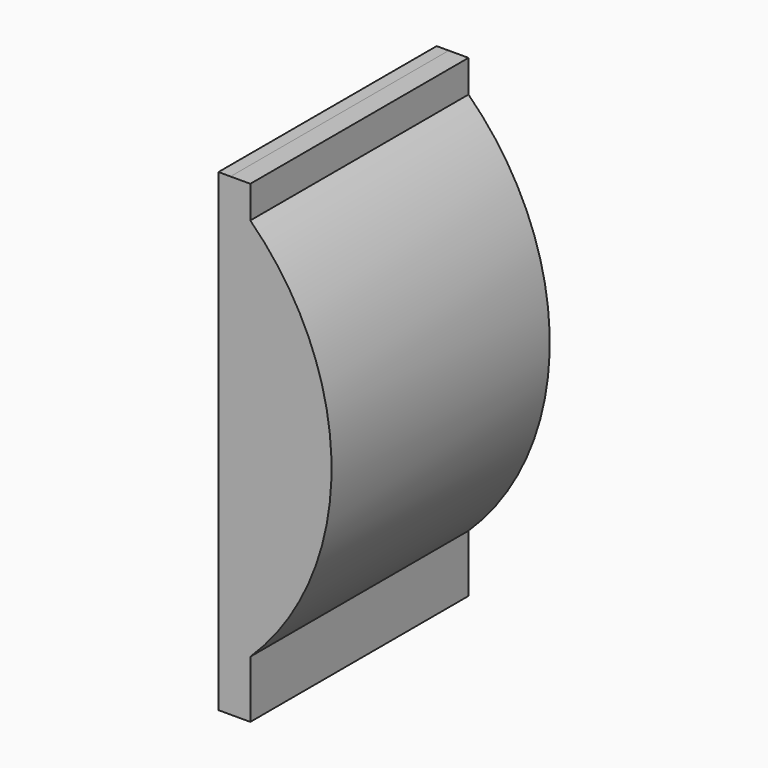
from build123d import *

# Parameters (mm, degrees)
F1_DEPTH = 120.65


with BuildPart() as f1:
    # F0 (on Front) → F1 (new body)
    with BuildSketch(Plane.XZ):
        with BuildLine():
            Line((-44.507403, -123.365141), (-35.756174, -123.365142))
            Line((-35.756174, -123.365142), (-35.756174, -97.965142))
            ThreePointArc((-35.756174, -97.965142), (0.184841, -13.033892), (-35.756174, 71.897358))
            Line((-35.756174, 71.897358), (-35.756174, 86.184858))
            Line((-35.756174, 86.184858), (-44.507403, 86.184859))
            Line((-44.507403, 86.184859), (-49.848381, 86.184859))
            Line((-49.848381, 86.184859), (-49.848381, -123.365141))
            Line((-49.848381, -123.365141), (-44.507403, -123.365141))
        make_face()
    extrude(amount=F1_DEPTH)


solid = f1.part
